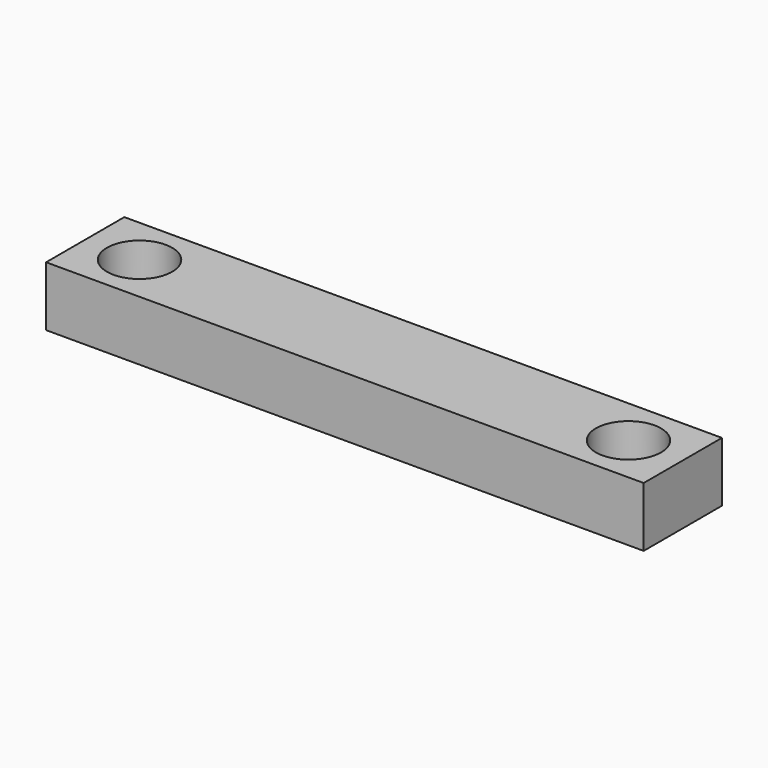
from build123d import *

# Parameters (mm, degrees)
PAD_DEPTH            = 11
PAD_MIRRORED_2_DEPTH = 11


with BuildPart() as part:
    # Sketch → Pad (new body)
    with BuildSketch(Plane.XY):
        with BuildLine():
            Line((0, 0), (39, 0))
            ThreePointArc((51, 0), (45, 6), (39, 0))
            Line((51, 0), (55, 0))
            Line((55, 0), (55, 9))
            Line((55, 9), (0, 9))
            Line((0, 9), (0, 0))
        make_face()
    pad = extrude(amount=PAD_DEPTH)

    # Sketch Mirrored 2 → Pad Mirrored 2 (add)
    with BuildSketch(Plane(origin=(0, 0, 0), x_dir=(-1, 0, 0), z_dir=(0, 0, -1))):
        with BuildLine():
            Line((0, 0), (39, 0))
            ThreePointArc((51, 0), (45, 6), (39, 0))
            Line((51, 0), (55, 0))
            Line((55, 0), (55, 9))
            Line((55, 9), (0, 9))
            Line((0, 9), (0, 0))
        make_face()
    pad_mirrored_2 = extrude(amount=-PAD_MIRRORED_2_DEPTH)

    # Mirrored001: Pad, Pad Mirrored 2 across Sketch H_Axis
    add(pad.mirror(Plane.ZX))
    add(pad_mirrored_2.mirror(Plane.ZX))


solid = part.part
